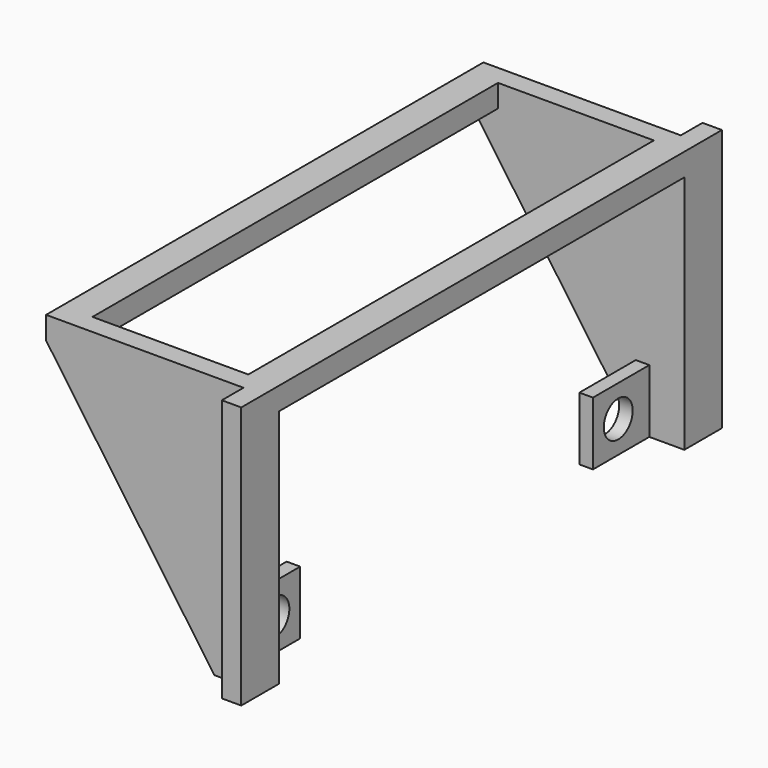
from build123d import *

# Parameters (mm, degrees)
F1_DEPTH  = 2.5
F2_W      = 24
F2_H      = 6
F3_DEPTH  = 26.55
F5_DEPTH  = 33.251
F6_W      = 1.5
F6_H      = 7
F7_DEPTH  = 7
F8_R      = 2
F9_DEPTH  = 25
F11_DEPTH = 3
F12_DEPTH = 0.8


with BuildPart() as f1:
    # F0 (on Top) → F1 (new body)
    with BuildSketch(Plane.XY):
        Polygon((-7.895649, 0), (-7.895649, 27.25), (9.354351, 27.25), (9.354351, 0), (12.729351, 0), (12.729351, 33.25), (-11.270649, 33.25), (-11.270649, 0), align=None)
    extrude(amount=F1_DEPTH)

    # F2 (on face) → F3 (join)
    with BuildSketch(Plane(origin=(0, 0, 0), x_dir=(1, 0, 0), z_dir=(0, 0, -1))):
        with Locations((0.729351, -30.25)):
            Rectangle(F2_W, F2_H)
    extrude(amount=F3_DEPTH)

    # F4 (on face) → F5 (cut, through all)
    with BuildSketch(Plane(origin=(0, 33.25, 0), x_dir=(-1, 0, 0), z_dir=(0, 1, 0))):
        Polygon((11.270649, -26.55), (11.270649, 0), (-7.354351, -26.55), align=None)
    extrude(amount=-F5_DEPTH, mode=Mode.SUBTRACT)

    # F6 (on face) → F7 (join)
    with BuildSketch(Plane.XZ.offset(-27.25)):
        with Locations((8.104351, -23.05)):
            Rectangle(F6_W, F6_H)
    extrude(amount=F7_DEPTH)

    # F8 (on face) → F9 (cut)
    with BuildSketch(Plane(origin=(7.354351, 0, 0), x_dir=(0, -1, 0), z_dir=(-1, 0, 0))):
        with Locations((-23.75, -23.05)):
            Circle(F8_R)
    extrude(amount=-F9_DEPTH, mode=Mode.SUBTRACT)

    # F10 (on face) → F11 (cut)
    with BuildSketch(Plane(origin=(0, 33.25, 0), x_dir=(-1, 0, 0), z_dir=(0, 1, 0))):
        Polygon((-7.354351, -26.55), (11.270649, 0), (11.270649, 2.5), (-10.580134, 2.5), (-10.580134, -26.55), align=None)
    extrude(amount=-F11_DEPTH, mode=Mode.SUBTRACT)

    # F6 (on face) → F12 (cut)
    with BuildSketch(Plane.XZ.offset(-27.25)):
        Polygon((-11.270649, 0), (7.354351, -26.55), (7.354351, -19.55), (8.854351, -19.55), (8.854351, -26.55), (12.729351, -26.55), (12.729351, 0), (9.354351, 0), (9.354351, 2.5), (-7.895649, 2.5), (-7.895649, 0), align=None)
    extrude(amount=-F12_DEPTH, mode=Mode.SUBTRACT)

    # F13: F1 across face


with BuildPart() as f1_1:
    add(f1.part)
    add(f1.part.mirror(Plane(origin=(-9.583149, 0, 1.25), x_dir=(1, 0, 0), z_dir=(0, -1, 0))))


solid = f1_1.part
